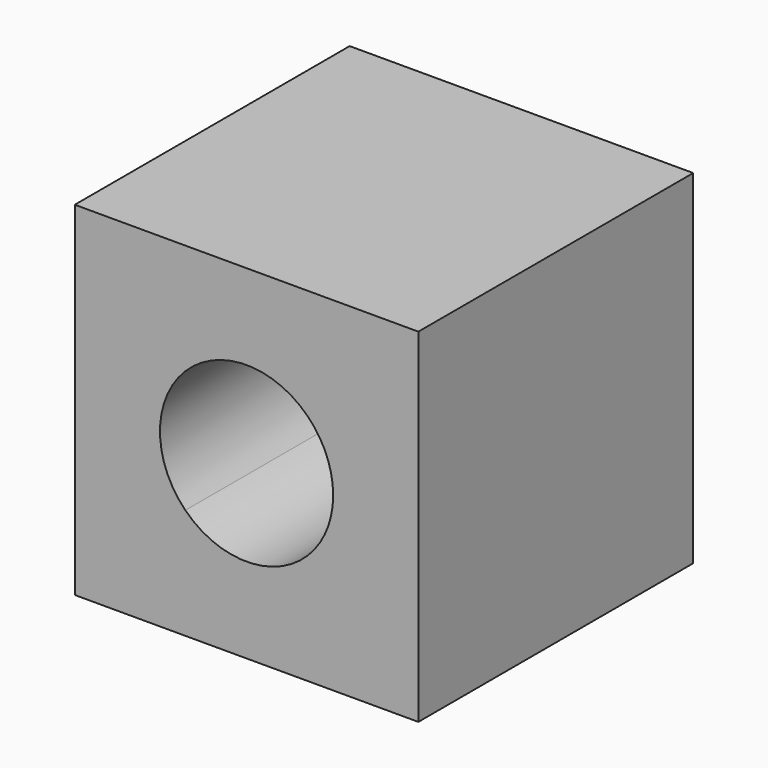
from build123d import *

# Parameters (mm, degrees)
F1_DEPTH = 50


with BuildPart() as f1:
    # F0 (on Front) → F1 (new body)
    with BuildSketch(Plane.XZ):
        with BuildLine():
            Line((-4.419141, 8.010539), (-20.509183, 24.100582))
            Line((-20.509183, 24.100582), (-20.509183, -25.899418))
            Line((-20.509183, -25.899418), (-4.419141, -9.809375))
            ThreePointArc((-4.419141, -9.809375), (-8.109766, -0.899418), (-4.419141, 8.010539))
        make_face()
        with BuildLine():
            Line((29.490817, 24.100582), (-20.509183, 24.100582))
            Line((-20.509183, 24.100582), (-4.419141, 8.010539))
            ThreePointArc((-4.419141, 8.010539), (4.490817, 11.701165), (13.400774, 8.010539))
            Line((13.400774, 8.010539), (29.490817, 24.100582))
        make_face()
        with BuildLine():
            Line((-4.419141, -9.809375), (-20.509183, -25.899418))
            Line((-20.509183, -25.899418), (29.490817, -25.899418))
            Line((29.490817, -25.899418), (13.400774, -9.809375))
            ThreePointArc((13.400774, -9.809375), (4.490817, -13.5), (-4.419141, -9.809375))
        make_face()
        with BuildLine():
            Line((29.490817, -25.899418), (29.490817, 24.100582))
            Line((29.490817, 24.100582), (13.400774, 8.010539))
            ThreePointArc((13.400774, 8.010539), (16.132237, 3.922616), (17.091399, -0.899418))
            ThreePointArc((17.091399, -0.899418), (16.132237, -5.721452), (13.400774, -9.809375))
            Line((13.400774, -9.809375), (29.490817, -25.899418))
        make_face()
    extrude(amount=F1_DEPTH)


solid = f1.part
